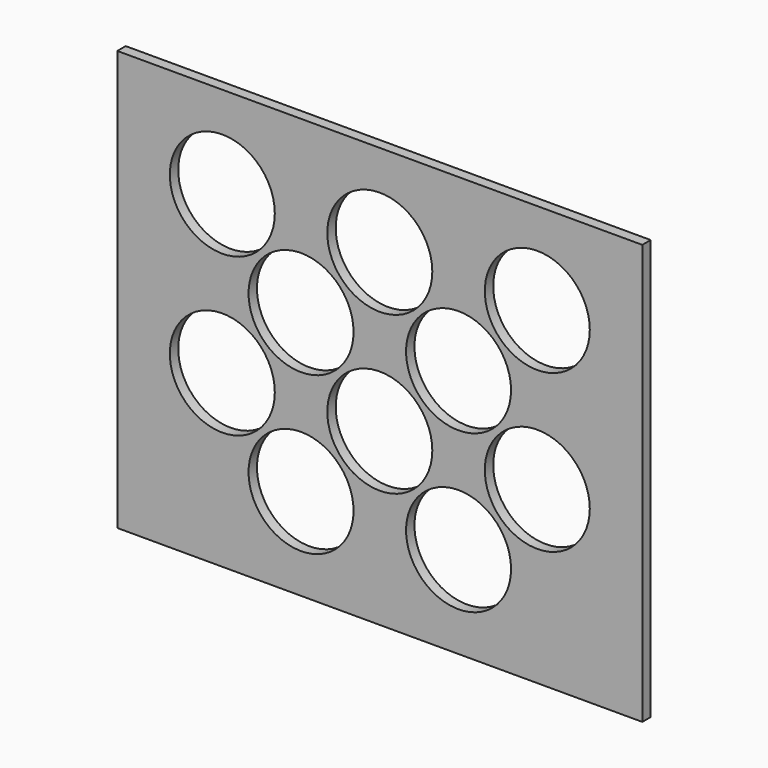
from build123d import *

# Parameters (mm, degrees)
F0_W     = 63.5
F0_H     = 50.8
F0_R     = 6.35
F1_DEPTH = 1.27


with BuildPart() as f1:
    # F0 (on Front) → F1 (new body)
    with BuildSketch(Plane.XZ):
        with Locations((1.654342, 20.6375)):
            Rectangle(F0_W, F0_H)
        with Locations((-7.870658, 6.35)):
            Circle(F0_R, mode=Mode.SUBTRACT)
        with Locations((-17.395658, 15.875)):
            Circle(F0_R, mode=Mode.SUBTRACT)
        with Locations((11.179342, 6.35)):
            Circle(F0_R, mode=Mode.SUBTRACT)
        with Locations((1.654342, 15.875)):
            Circle(F0_R, mode=Mode.SUBTRACT)
        with Locations((20.704342, 15.875)):
            Circle(F0_R, mode=Mode.SUBTRACT)
        with Locations((-7.870658, 25.4)):
            Circle(F0_R, mode=Mode.SUBTRACT)
        with Locations((-17.395658, 34.925)):
            Circle(F0_R, mode=Mode.SUBTRACT)
        with Locations((1.654342, 34.925)):
            Circle(F0_R, mode=Mode.SUBTRACT)
        with Locations((11.179342, 25.4)):
            Circle(F0_R, mode=Mode.SUBTRACT)
        with Locations((20.704342, 34.925)):
            Circle(F0_R, mode=Mode.SUBTRACT)
    extrude(amount=F1_DEPTH)


solid = f1.part
